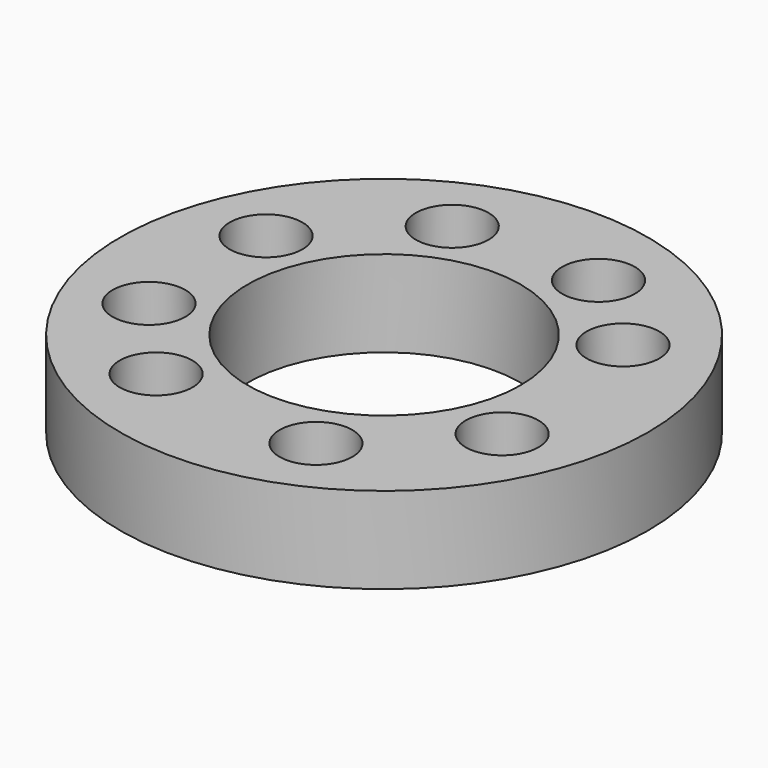
from build123d import *

# Parameters (mm, degrees)
CYLINDER430_R               = 1.5
CYLINDER430_DEPTH           = 100
CYLINDER432_R               = 1.5
CYLINDER432_DEPTH           = 100
CYLINDER432_ROLL_ANGLE      = -0.500355
CYLINDER432_PITCH_ANGLE     = 0.967193
CYLINDER432_PLACEMENT_ANGLE = 144.93646
CYLINDER434_R               = 1.5
CYLINDER434_DEPTH           = 100
CYLINDER436_R               = 1.5
CYLINDER436_DEPTH           = 100
CYLINDER436_PLACEMENT_ANGLE = 225
CYLINDER438_R               = 1.5
CYLINDER438_DEPTH           = 100
CYLINDER440_R               = 1.5
CYLINDER440_DEPTH           = 100
CYLINDER440_PLACEMENT_ANGLE = 45
CYLINDER442_R               = 1.5
CYLINDER442_DEPTH           = 100
CYLINDER442_ROLL_ANGLE      = 0.146073
CYLINDER442_PITCH_ANGLE     = 1.079101
CYLINDER442_PLACEMENT_ANGLE = -9.939308
CYLINDER428_R               = 1.5
CYLINDER428_DEPTH           = 100
CYLINDER428_PLACEMENT_ANGLE = 45
CYLINDER439_R               = 8
CYLINDER439_DEPTH           = 18
CYLINDER437_R               = 8
CYLINDER437_DEPTH           = 18
CYLINDER437_PLACEMENT_ANGLE = 225
CYLINDER435_R               = 8
CYLINDER435_DEPTH           = 18
CYLINDER433_R               = 8
CYLINDER433_DEPTH           = 18
CYLINDER433_ROLL_ANGLE      = -0.500355
CYLINDER433_PITCH_ANGLE     = 0.967193
CYLINDER433_PLACEMENT_ANGLE = 144.93646
CYLINDER431_R               = 8
CYLINDER431_DEPTH           = 18
CYLINDER429_R               = 8
CYLINDER429_DEPTH           = 18
CYLINDER429_PLACEMENT_ANGLE = 45
CYLINDER443_R               = 8
CYLINDER443_DEPTH           = 18
CYLINDER443_ROLL_ANGLE      = 0.146073
CYLINDER443_PITCH_ANGLE     = 1.079101
CYLINDER443_PLACEMENT_ANGLE = -9.939308
CYLINDER441_R               = 8
CYLINDER441_DEPTH           = 18
CYLINDER441_PLACEMENT_ANGLE = 45
TUBE022_R                   = 58
TUBE022_R_2                 = 30
TUBE022_DEPTH               = 19


with BuildPart() as obj1:
    # Cylinder430 → Cylinder430 (new body)
    with BuildSketch(Plane(origin=(38.80294, -16.072704, 0), x_dir=(0, 1, 0), z_dir=(0, 0, 1))):
        Circle(CYLINDER430_R)
    extrude(amount=CYLINDER430_DEPTH)


with BuildPart() as obj2:
    # Cylinder432 → Cylinder432 (new body)
    with BuildSketch(Plane.XY):
        Circle(CYLINDER432_R)
    extrude(amount=CYLINDER432_DEPTH)


with BuildPart() as obj2_1:
    # Cylinder432 roll: moved
    add(obj2.part.rotate(Axis((0, 0, 0), (1, 0, 0)), CYLINDER432_ROLL_ANGLE))


with BuildPart() as obj2_2:
    # Cylinder432 pitch: moved
    add(obj2_1.part.rotate(Axis((0, 0, 0), (0, 1, 0)), CYLINDER432_PITCH_ANGLE))


with BuildPart() as obj2_3:
    # Cylinder432 placement: moved
    add(obj2_2.part.moved(Location((35.440039, 22.530677, 0.610113))).rotate(Axis((35.440039, 22.530677, 0.610113), (0, 0, 1)), CYLINDER432_PLACEMENT_ANGLE))


with BuildPart() as obj3:
    # Cylinder434 → Cylinder434 (new body)
    with BuildSketch(Plane(origin=(16.072704, 38.80294, 0), x_dir=(-1, 0, 0), z_dir=(0, 0, 1))):
        Circle(CYLINDER434_R)
    extrude(amount=CYLINDER434_DEPTH)


with BuildPart() as obj4:
    # Cylinder436 → Cylinder436 (new body)
    with BuildSketch(Plane.XY):
        Circle(CYLINDER436_R)
    extrude(amount=CYLINDER436_DEPTH)


with BuildPart() as obj4_1:
    # Cylinder436 placement: moved
    add(obj4.part.moved(Location((-16.072704, 38.80294, 0))).rotate(Axis((-16.072704, 38.80294, 0), (0, 0, 1)), CYLINDER436_PLACEMENT_ANGLE))


with BuildPart() as obj5:
    # Cylinder438 → Cylinder438 (new body)
    with BuildSketch(Plane(origin=(-38.80294, 16.072704, 0), x_dir=(0, -1, 0), z_dir=(0, 0, 1))):
        Circle(CYLINDER438_R)
    extrude(amount=CYLINDER438_DEPTH)


with BuildPart() as obj6:
    # Cylinder440 → Cylinder440 (new body)
    with BuildSketch(Plane.XY):
        Circle(CYLINDER440_R)
    extrude(amount=CYLINDER440_DEPTH)


with BuildPart() as obj6_1:
    # Cylinder440 placement: moved
    add(obj6.part.moved(Location((-38.80294, -16.072704, 0))).rotate(Axis((-38.80294, -16.072704, 0), (0, 0, -1)), CYLINDER440_PLACEMENT_ANGLE))


with BuildPart() as obj7:
    # Cylinder442 → Cylinder442 (new body)
    with BuildSketch(Plane.XY):
        Circle(CYLINDER442_R)
    extrude(amount=CYLINDER442_DEPTH)


with BuildPart() as obj7_1:
    # Cylinder442 roll: moved
    add(obj7.part.rotate(Axis((0, 0, 0), (1, 0, 0)), CYLINDER442_ROLL_ANGLE))


with BuildPart() as obj7_2:
    # Cylinder442 pitch: moved
    add(obj7_1.part.rotate(Axis((0, 0, 0), (0, 1, 0)), CYLINDER442_PITCH_ANGLE))


with BuildPart() as obj7_3:
    # Cylinder442 placement: moved
    add(obj7_2.part.moved(Location((-22.528054, -35.446371, 0.203785))).rotate(Axis((-22.528054, -35.446371, 0.203785), (0, 0, 1)), CYLINDER442_PLACEMENT_ANGLE))


with BuildPart() as compound321:
    # Cylinder428 → Cylinder428 (new body)
    with BuildSketch(Plane.XY):
        Circle(CYLINDER428_R)
    extrude(amount=CYLINDER428_DEPTH)


with BuildPart() as compound321_1:
    # Cylinder428 placement: moved
    add(compound321.part.moved(Location((16.072704, -38.80294, 0))).rotate(Axis((16.072704, -38.80294, 0), (0, 0, 1)), CYLINDER428_PLACEMENT_ANGLE))

    # Compound321: union obj1, obj2, obj3, obj4, obj5, obj6, obj7
    add(obj1.part)
    add(obj2_3.part)
    add(obj3.part)
    add(obj4_1.part)
    add(obj5.part)
    add(obj6_1.part)
    add(obj7_3.part)


with BuildPart() as obj8:
    # Cylinder439 → Cylinder439 (new body)
    with BuildSketch(Plane(origin=(-38.798949, 16.072537, 43), x_dir=(0, -1, 0), z_dir=(0, 0, 1))):
        Circle(CYLINDER439_R)
    extrude(amount=CYLINDER439_DEPTH)


with BuildPart() as obj9:
    # Cylinder437 → Cylinder437 (new body)
    with BuildSketch(Plane.XY):
        Circle(CYLINDER437_R)
    extrude(amount=CYLINDER437_DEPTH)


with BuildPart() as obj9_1:
    # Cylinder437 placement: moved
    add(obj9.part.moved(Location((-16.07, 38.8, 43))).rotate(Axis((-16.07, 38.8, 43), (0, 0, 1)), CYLINDER437_PLACEMENT_ANGLE))


with BuildPart() as obj10:
    # Cylinder435 → Cylinder435 (new body)
    with BuildSketch(Plane(origin=(16.072537, 38.798949, 43), x_dir=(-1, 0, 0), z_dir=(0, 0, 1))):
        Circle(CYLINDER435_R)
    extrude(amount=CYLINDER435_DEPTH)


with BuildPart() as obj11:
    # Cylinder433 → Cylinder433 (new body)
    with BuildSketch(Plane.XY):
        Circle(CYLINDER433_R)
    extrude(amount=CYLINDER433_DEPTH)


with BuildPart() as obj11_1:
    # Cylinder433 roll: moved
    add(obj11.part.rotate(Axis((0, 0, 0), (1, 0, 0)), CYLINDER433_ROLL_ANGLE))


with BuildPart() as obj11_2:
    # Cylinder433 pitch: moved
    add(obj11_1.part.rotate(Axis((0, 0, 0), (0, 1, 0)), CYLINDER433_PITCH_ANGLE))


with BuildPart() as obj11_3:
    # Cylinder433 placement: moved
    add(obj11_2.part.moved(Location((34.627801, 22.637113, 43.602309))).rotate(Axis((34.627801, 22.637113, 43.602309), (0, 0, 1)), CYLINDER433_PLACEMENT_ANGLE))


with BuildPart() as obj12:
    # Cylinder431 → Cylinder431 (new body)
    with BuildSketch(Plane(origin=(38.798949, -16.072537, 43), x_dir=(0, 1, 0), z_dir=(0, 0, 1))):
        Circle(CYLINDER431_R)
    extrude(amount=CYLINDER431_DEPTH)


with BuildPart() as obj13:
    # Cylinder429 → Cylinder429 (new body)
    with BuildSketch(Plane.XY):
        Circle(CYLINDER429_R)
    extrude(amount=CYLINDER429_DEPTH)


with BuildPart() as obj13_1:
    # Cylinder429 placement: moved
    add(obj13.part.moved(Location((16.07, -38.8, 43))).rotate(Axis((16.07, -38.8, 43), (0, 0, 1)), CYLINDER429_PLACEMENT_ANGLE))


with BuildPart() as obj14:
    # Cylinder443 → Cylinder443 (new body)
    with BuildSketch(Plane.XY):
        Circle(CYLINDER443_R)
    extrude(amount=CYLINDER443_DEPTH)


with BuildPart() as obj14_1:
    # Cylinder443 roll: moved
    add(obj14.part.rotate(Axis((0, 0, 0), (1, 0, 0)), CYLINDER443_ROLL_ANGLE))


with BuildPart() as obj14_2:
    # Cylinder443 pitch: moved
    add(obj14_1.part.rotate(Axis((0, 0, 0), (0, 1, 0)), CYLINDER443_PITCH_ANGLE))


with BuildPart() as obj14_3:
    # Cylinder443 placement: moved
    add(obj14_2.part.moved(Location((-21.748471, -35.690226, 43.196026))).rotate(Axis((-21.748471, -35.690226, 43.196026), (0, 0, 1)), CYLINDER443_PLACEMENT_ANGLE))


with BuildPart() as compound323:
    # Cylinder441 → Cylinder441 (new body)
    with BuildSketch(Plane.XY):
        Circle(CYLINDER441_R)
    extrude(amount=CYLINDER441_DEPTH)


with BuildPart() as compound323_1:
    # Cylinder441 placement: moved
    add(compound323.part.moved(Location((-38.8, -16.07, 43))).rotate(Axis((-38.8, -16.07, 43), (0, 0, -1)), CYLINDER441_PLACEMENT_ANGLE))

    # Compound323: union obj8, obj9, obj10, obj11, obj12, obj13, obj14
    add(obj8.part)
    add(obj9_1.part)
    add(obj10.part)
    add(obj11_3.part)
    add(obj12.part)
    add(obj13_1.part)
    add(obj14_3.part)


with BuildPart() as compound323_2:
    # Compound323 placement: moved
    add(compound323_1.part.moved(Location((0, 0, 3))))


with BuildPart() as obj15:
    # Tube022 → Tube022 (new body)
    with BuildSketch(Plane.XY.offset(42)):
        Circle(TUBE022_R)
        Circle(TUBE022_R_2, mode=Mode.SUBTRACT)
    extrude(amount=TUBE022_DEPTH)

    # Cut169: cut Compound323
    add(compound323_2.part, mode=Mode.SUBTRACT)

    # Cut170: cut Compound321
    add(compound321_1.part, mode=Mode.SUBTRACT)


solid = obj15.part
